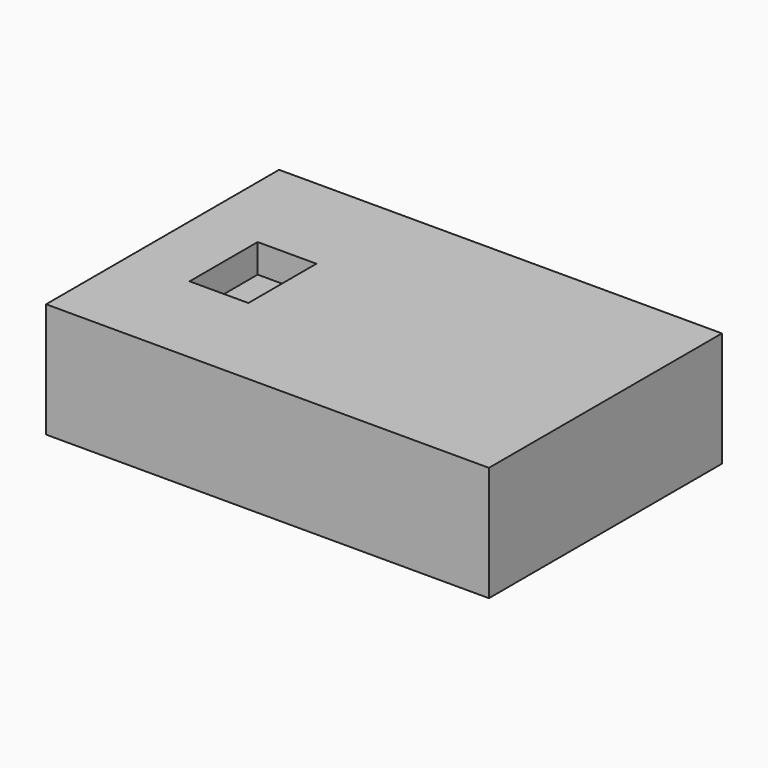
from build123d import *

# Parameters (mm, degrees)
F1_DEPTH = 25.4
F2_W     = 13.004002
F2_H     = 18.828773
F3_DEPTH = 6.35


with BuildPart() as f1:
    # F0 (on Top) → F1 (new body)
    with BuildSketch(Plane.XY):
        Polygon((-49.004722, 32.224186), (-49.004722, -32.224186), (49.004722, -32.224186), (49.004722, 32.224186), (25.007728, 32.224186), (-25.007728, 32.224186), align=None)
    extrude(amount=F1_DEPTH)

    # F2 (on face) → F3 (cut)
    with BuildSketch(Plane.XY.offset(25.4)):
        with Locations((-28.497411, -0.615601)):
            Rectangle(F2_W, F2_H)
    extrude(amount=-F3_DEPTH, mode=Mode.SUBTRACT)


solid = f1.part
